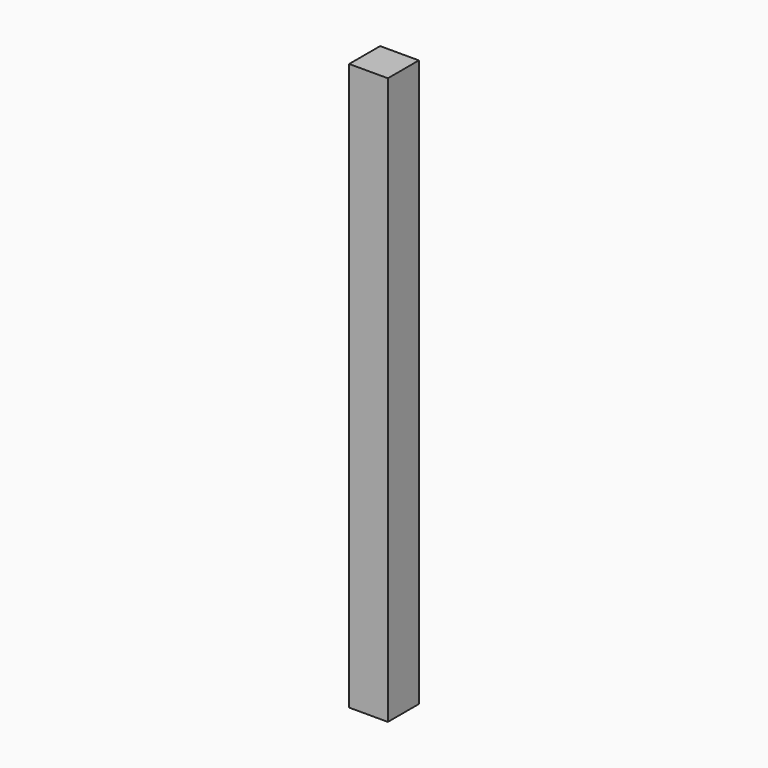
from build123d import *

# Parameters (mm, degrees)
F0_W     = 41
F0_H     = 41
F1_DEPTH = 600
F2_W     = 6
F2_H     = 68
F3_DEPTH = 20
F4_W     = 6
F4_H     = 68
F5_DEPTH = 20


with BuildPart() as f1:
    # F0 (on Top) → F1 (new body)
    with BuildSketch(Plane.XY):
        with Locations((4.776136, -3.508085)):
            Rectangle(F0_W, F0_H)
    extrude(amount=F1_DEPTH)

    # F2 (on face) → F3 (cut)
    with BuildSketch(Plane(origin=(-15.723864, 0, 0), x_dir=(0, -1, 0), z_dir=(-1, 0, 0))):
        with Locations((8.508085, 46)):
            Rectangle(F2_W, F2_H)
    extrude(amount=-F3_DEPTH, mode=Mode.SUBTRACT)

    # F4 (on face) → F5 (cut)
    with BuildSketch(Plane(origin=(0, 16.991915, 0), x_dir=(-1, 0, 0), z_dir=(0, 1, 0))):
        with Locations((-9.776136, 46)):
            Rectangle(F4_W, F4_H)
    extrude(amount=-F5_DEPTH, mode=Mode.SUBTRACT)


solid = f1.part
